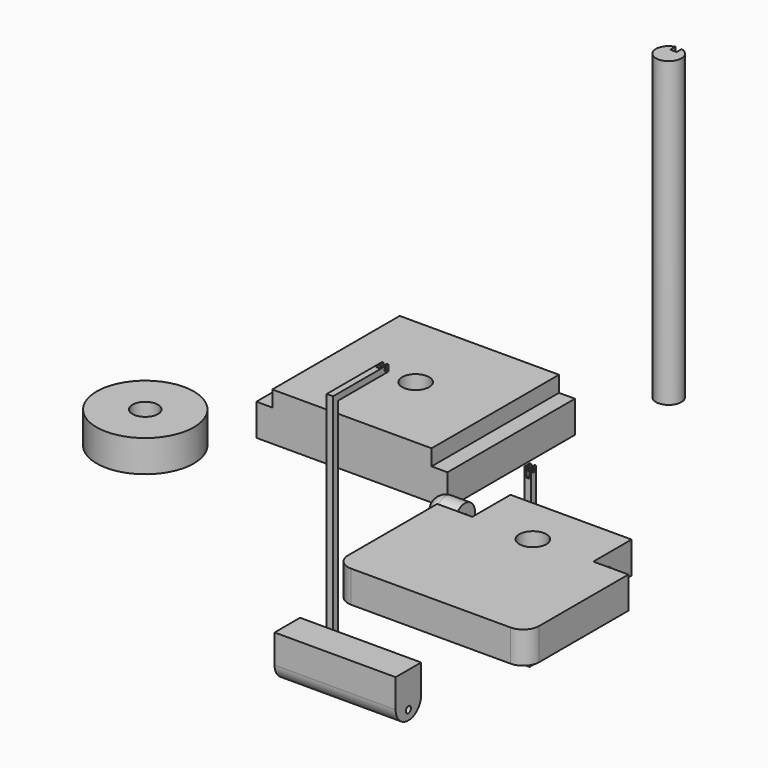
from build123d import *

# Parameters (mm, degrees)
F0_W           = 50
F0_H           = 50
F1_DEPTH       = 5
F2_W           = 60
F2_H           = 50
F3_DEPTH       = 10
F4_R           = 4.25
F5_DEPTH       = 15.001
F7_DEPTH       = 95
F9_DEPTH       = 2
F10_W          = 1
F10_H          = 2
F11_DEPTH      = 3
F12_R          = 0.5
F13_DEPTH      = 62.022552
F15_DEPTH      = 2
F16_R          = 0.5
F17_DEPTH      = 2.001
F18_R          = 0.5
F19_DEPTH      = 0.5
F19_DEPTH_BACK = 1.5
F20_R          = 15.25
F21_DEPTH      = 10
F22_R          = 4
F23_DEPTH      = 53.877672
F24_R          = 4.25
F25_DEPTH      = 25
F26_R          = 1
F27_DEPTH      = 10
F28_R          = 1
F29_DEPTH      = 10
F31_DEPTH      = 38
F32_R          = 1
F33_DEPTH      = 10
F34_R          = 1
F35_DEPTH      = 10
F36_R          = 5
F39_R          = 1
F40_DEPTH      = 25


with BuildPart() as f1:
    # F0 (on Top) → F1 (new body)
    with BuildSketch(Plane.XY):
        with Locations((-30.021552, 25.338422)):
            Rectangle(F0_W, F0_H)
    extrude(amount=F1_DEPTH)

    # F2 (on face) → F3 (join)
    with BuildSketch(Plane(origin=(0, 0, 0), x_dir=(1, 0, 0), z_dir=(0, 0, -1))):
        with Locations((-30.021552, -25.338422)):
            Rectangle(F2_W, F2_H)
    extrude(amount=F3_DEPTH)

    # F4 (on face) → F5 (cut, through all)
    with BuildSketch(Plane.XY.offset(5)):
        with Locations((-30.021552, 25.338422)):
            Circle(F4_R)
    extrude(amount=-F5_DEPTH, mode=Mode.SUBTRACT)


with BuildPart() as f7:
    # F6 (on Top) → F7 (new body)
    with BuildSketch(Plane.XY):
        with BuildLine():
            Line((16.491243, 67.09788), (16.491243, 69.09788))
            ThreePointArc((16.491243, 69.09788), (17.491243, 61.224897), (18.491243, 69.09788))
            Line((18.491243, 69.09788), (18.491243, 67.09788))
            Line((18.491243, 67.09788), (16.491243, 67.09788))
        make_face()
    extrude(amount=F7_DEPTH)


with BuildPart() as f9:
    # F8 (on Right) → F9 (new body)
    with BuildSketch(Plane.YZ):
        Polygon((-47.065535, 40.918842), (-47.065535, -38.081158), (-35.065535, -38.081158), (-35.065535, -36.081158), (-45.065535, -36.081158), (-45.065535, 38.918842), (-25.388535, 38.918842), (-25.388535, 40.918842), align=None)
    extrude(amount=F9_DEPTH)

    # F10 (on face) → F11 (cut)
    with BuildSketch(Plane(origin=(0, -25.388535, 0), x_dir=(-1, 0, 0), z_dir=(0, 1, 0))):
        with Locations((-1, 39.918842)):
            Rectangle(F10_W, F10_H)
    extrude(amount=-F11_DEPTH, mode=Mode.SUBTRACT)

    # F12 (on face) → F13 (cut, through all)
    with BuildSketch(Plane.YZ.offset(2)):
        with Locations((-26.388535, 39.918842)):
            Circle(F12_R)
    extrude(amount=-F13_DEPTH, mode=Mode.SUBTRACT)


with BuildPart() as f15:
    # F14 (on Front) → F15 (new body)
    with BuildSketch(Plane.XZ):
        Polygon((26.595865, 11.123328), (26.095865, 11.123328), (26.095865, -40.876672), (26.595865, -40.876672), (26.595865, -43.876672), (27.595865, -43.876672), (27.595865, -40.876672), (28.095865, -40.876672), (28.095865, 11.123328), (27.595865, 11.123328), (27.595865, 8.123328), (26.595865, 8.123328), align=None)
    extrude(amount=F15_DEPTH)

    # F16 (on face) → F17 (cut, through all)
    with BuildSketch(Plane(origin=(26.095865, 0, 0), x_dir=(0, -1, 0), z_dir=(-1, 0, 0))):
        with Locations((1, 10.123328)):
            Circle(F16_R)
    extrude(amount=-F17_DEPTH, mode=Mode.SUBTRACT)

    # F18 (on face) → F19 (join, two sides)
    with BuildSketch(Plane(origin=(26.595865, 0, 0), x_dir=(0, -1, 0), z_dir=(-1, 0, 0))) as f19_sk:
        with Locations((1, -42.876672)):
            Circle(F18_R)
    extrude(amount=F19_DEPTH)
    extrude(f19_sk.sketch, amount=-F19_DEPTH_BACK)


with BuildPart() as f21:
    # F20 (on Top) → F21 (new body)
    with BuildSketch(Plane.XY):
        with Locations((-66.733785, -34.863252)):
            Circle(F20_R)
        Polygon((69.501953, -14.344923), (31.501953, -14.344923), (31.501953, -29.344923), (20.501953, -29.344923), (20.501953, -69.344923), (80.501953, -69.344923), (80.501953, -29.344923), (69.501953, -29.344923), align=None)
    extrude(amount=F21_DEPTH)

    # F22 (on face) → F23 (cut, through all)
    with BuildSketch(Plane.XY.offset(10)):
        with Locations((-66.733785, -34.863252)):
            Circle(F22_R)
    extrude(amount=-F23_DEPTH, mode=Mode.SUBTRACT)

    # F24 (on face) → F25 (cut)
    with BuildSketch(Plane.XY.offset(10)):
        with Locations((50.501953, -29.344923)):
            Circle(F24_R)
    extrude(amount=-F25_DEPTH, mode=Mode.SUBTRACT)

    # F26 (on face) → F27 (cut)
    with BuildSketch(Plane.YZ.offset(69.501953)):
        with Locations((-23.344923, 5)):
            Circle(F26_R)
    extrude(amount=-F27_DEPTH, mode=Mode.SUBTRACT)

    # F28 (on face) → F29 (cut)
    with BuildSketch(Plane(origin=(31.501953, 0, 0), x_dir=(0, -1, 0), z_dir=(-1, 0, 0))):
        with Locations((23.344923, 5)):
            Circle(F28_R)
    extrude(amount=-F29_DEPTH, mode=Mode.SUBTRACT)

    # F36
    f36_edges = [f21.edges().sort_by_distance(p)[0] for p in [
        (80.501953, -69.344923, 5),
        (20.501953, -69.344923, 5),
    ]]
    fillet(f36_edges, radius=F36_R)


with BuildPart() as f31:
    # F30 (on Right) → F31 (new body)
    with BuildSketch(Plane.YZ):
        with BuildLine():
            Line((-67.534549, -16.663966), (-67.534549, -25.663966))
            ThreePointArc((-67.534549, -25.663966), (-62.534549, -30.663966), (-57.534549, -25.663966))
            Line((-57.534549, -25.663966), (-57.534549, -16.663966))
            Line((-57.534549, -16.663966), (-67.534549, -16.663966))
        make_face()
    extrude(amount=F31_DEPTH)

    # F32 (on face) → F33 (cut)
    with BuildSketch(Plane(origin=(0, 0, 0), x_dir=(0, -1, 0), z_dir=(-1, 0, 0))):
        with Locations((62.534549, -27.663966)):
            Circle(F32_R)
    extrude(amount=-F33_DEPTH, mode=Mode.SUBTRACT)

    # F34 (on face) → F35 (cut)
    with BuildSketch(Plane.YZ.offset(38)):
        with Locations((-62.534549, -27.663966)):
            Circle(F34_R)
    extrude(amount=-F35_DEPTH, mode=Mode.SUBTRACT)


with BuildPart() as f38:
    # F37 (on Top) → F38 (revolve)
    with BuildSketch(Plane.XY):
        with BuildLine():
            ThreePointArc((12.353747, -11.845219), (9.52532, -13.016792), (8.353747, -15.845219))
            Line((8.353747, -15.845219), (18.353747, -15.845219))
            Line((18.353747, -15.845219), (18.353747, -11.845219))
            Line((18.353747, -11.845219), (12.353747, -11.845219))
        make_face()
    revolve(axis=Axis((13.353747, -15.845219, 0), (1, 0, 0)))

    # F39 (on face) → F40 (cut)
    with BuildSketch(Plane.YZ.offset(18.353747)):
        with Locations((-15.845219, 0)):
            Circle(F39_R)
    extrude(amount=-F40_DEPTH, mode=Mode.SUBTRACT)


solid = Compound([f1.part, f7.part, f9.part, f15.part, f21.part, f31.part, f38.part])
